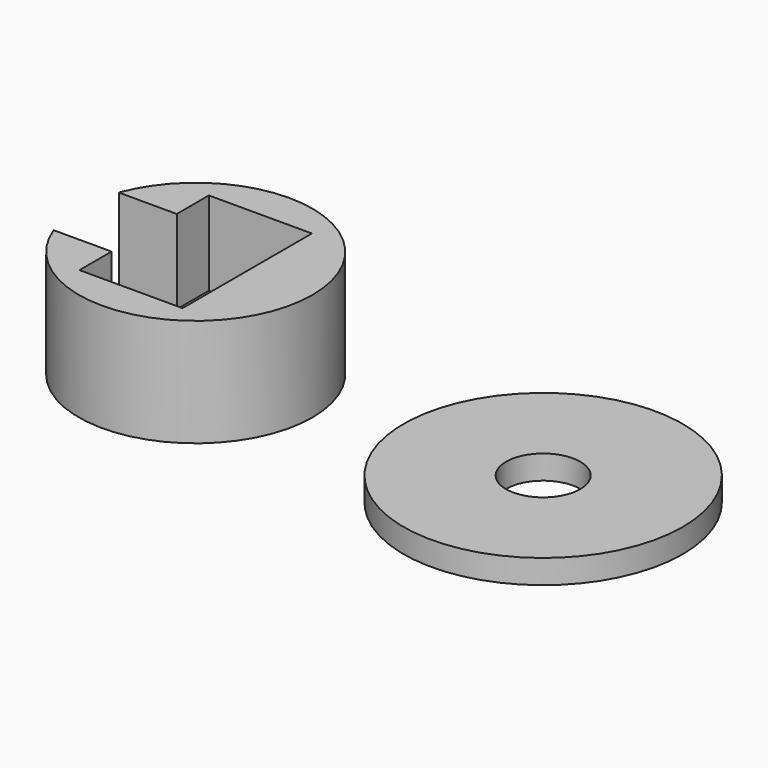
from build123d import *

# Parameters (mm, degrees)
SKETCH_R      = 9.75
SKETCH_R_2    = 3.1
PAD_DEPTH     = 9
POCKET_DEPTH  = 7
SKETCH002_R   = 11.65
SKETCH002_R_2 = 3.1
PAD001_DEPTH  = 2


with BuildPart() as body:
    # Sketch → Pad (new body)
    with BuildSketch(Plane.XY):
        Circle(SKETCH_R)
        Circle(SKETCH_R_2, mode=Mode.SUBTRACT)
    extrude(amount=PAD_DEPTH)

    # Sketch001 (on Face4 of Pad) → Pocket (cut)
    with BuildSketch(Plane.XY.offset(9)):
        Polygon((-4.3, -6.75), (4.3, -6.75), (4.3, 6.75), (-4.3, 6.75), (-4.3, 3.4), (-14.3, 3.4), (-14.3, -3.4), (-4.3, -3.4), align=None)
    extrude(amount=-POCKET_DEPTH, mode=Mode.SUBTRACT)


with BuildPart() as body001:
    # Sketch002 → Pad001 (new body)
    with BuildSketch(Plane.XY):
        Circle(SKETCH002_R)
        Circle(SKETCH002_R_2, mode=Mode.SUBTRACT)
    extrude(amount=PAD001_DEPTH)


with BuildPart() as body001_1:
    # Body001 placement: moved
    add(body001.part.moved(Location((29, 0, 0))))


solid = Compound([body.part, body001_1.part])
